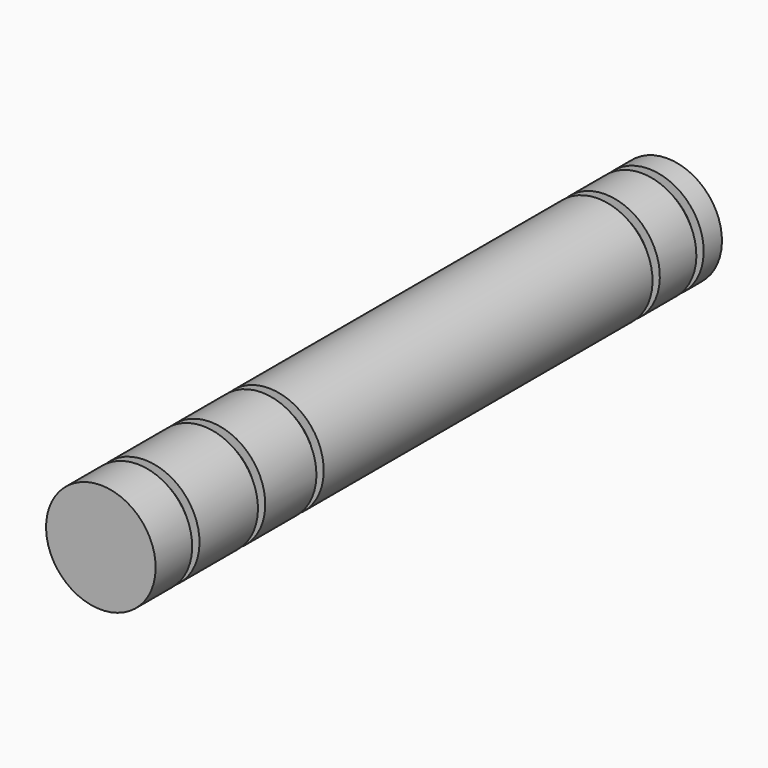
from build123d import *


with BuildPart() as f1:
    # F0 (on Right) → F1 (revolve)
    with BuildSketch(Plane.YZ):
        Polygon((2, 6), (0, 6), (-6, 6), (-6, 5), (-7, 5), (-7, 6), (-12, 6), (-12, 0), (0, 0), (65.5, 0), (65.5, 6), (63, 6), (63, 5), (62, 5), (62, 6), (57, 6), (57, 5), (56, 5), (56, 6), (30, 6), (29, 6), (11, 6), (11, 5), (10, 5), (10, 6), (3, 6), (3, 5), (2, 5), align=None)
    revolve(axis=Axis((0, 32.75, 0), (0, 1, 0)))


solid = f1.part
